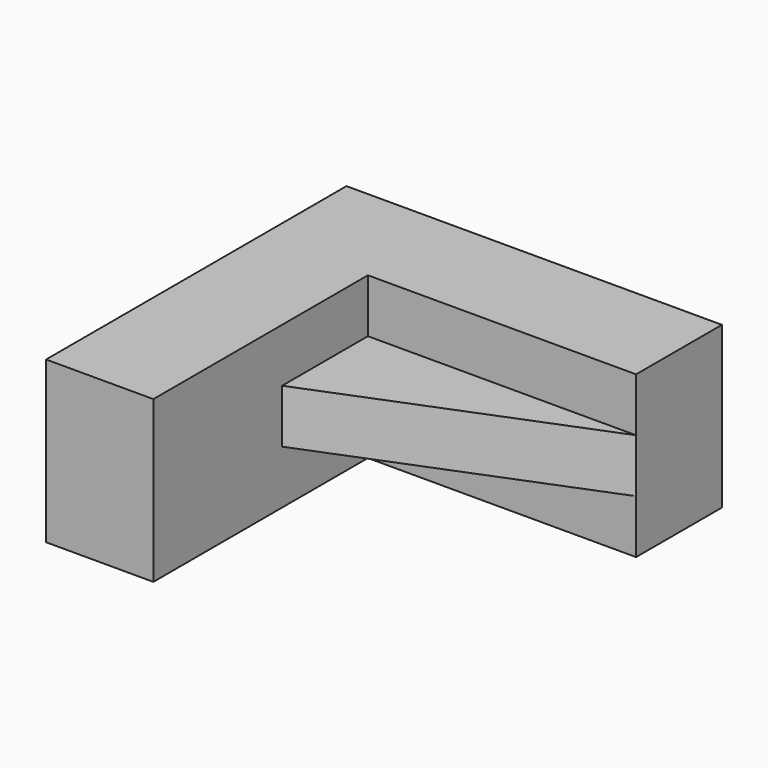
from build123d import *

# Parameters (mm, degrees)
F0_W     = 50.8
F0_H     = 127
F0_H_2   = 50.8
F0_W_2   = 127
F1_DEPTH = 76.2
F5_DEPTH = 25.4


with BuildPart() as f1:
    # F0 (on Top) → F1 (new body)
    with BuildSketch(Plane.XY):
        with Locations((-25.4, 63.5)):
            Rectangle(F0_W, F0_H)
        with Locations((-25.4, 152.4)):
            Rectangle(F0_W, F0_H_2)
        with Locations((63.5, 152.4)):
            Rectangle(F0_W_2, F0_H_2)
    extrude(amount=F1_DEPTH)


with BuildPart() as f5:
    # F4 (on plane+point) → F5 (new body)
    with BuildSketch(Plane.XY.offset(50.8)):
        Polygon((127, 127), (0, 127), (0, 76.2), align=None)
    extrude(amount=-F5_DEPTH)


solid = Compound([f1.part, f5.part])
